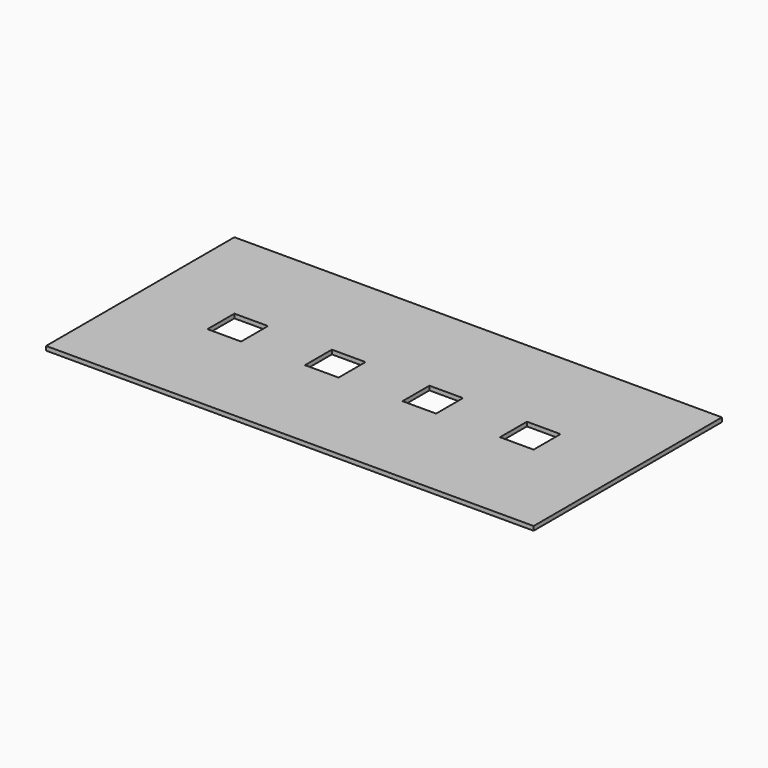
from build123d import *

# Parameters (mm, degrees)
F1_DEPTH = 6.35


with BuildPart() as f1:
    # F0 (on Top) → F1 (new body)
    with BuildSketch(Plane.XY):
        Polygon((-368.3, -177.8), (368.3, -177.8), (368.3, 0), (246.38, 0), (246.38, -25.4), (195.58, -25.4), (195.58, 0), (99.06, 0), (99.06, -25.4), (48.26, -25.4), (48.26, 0), (-48.26, 0), (-48.26, -25.4), (-99.06, -25.4), (-99.06, 0), (-195.58, 0), (-195.58, -25.4), (-246.38, -25.4), (-246.38, 0), (-368.3, 0), align=None)
        Polygon((246.38, 0), (368.3, 0), (368.3, 177.8), (-368.3, 177.8), (-368.3, 0), (-246.38, 0), (-246.38, 25.4), (-195.58, 25.4), (-195.58, 0), (-99.06, 0), (-99.06, 25.4), (-48.26, 25.4), (-48.26, 0), (48.26, 0), (48.26, 25.4), (99.06, 25.4), (99.06, 0), (195.58, 0), (195.58, 25.4), (246.38, 25.4), align=None)
    extrude(amount=F1_DEPTH)


solid = f1.part
